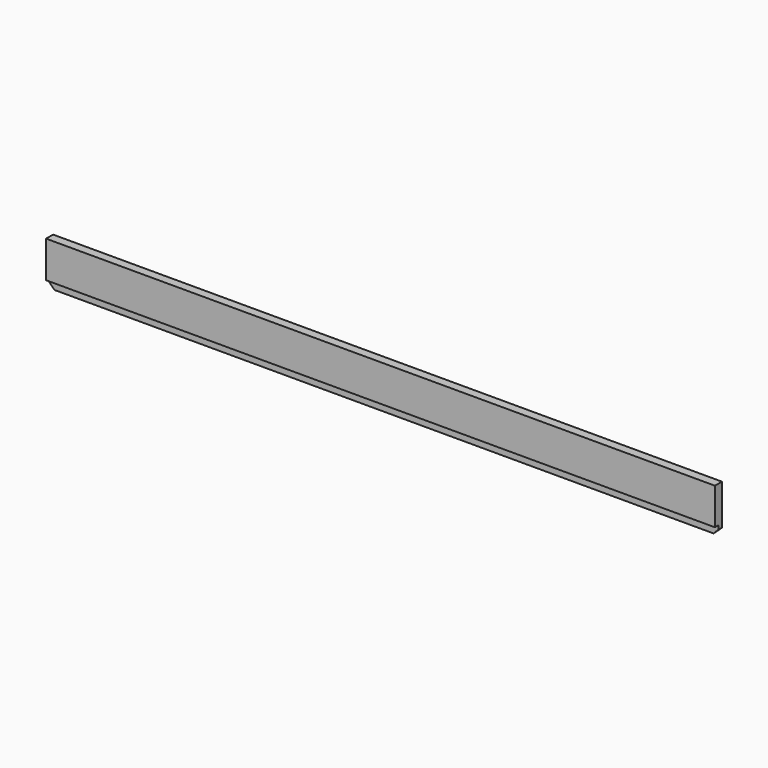
from build123d import *

# Parameters (mm, degrees)
F0_W     = 1370
F0_H     = 93
F1_DEPTH = 9
F2_W     = 1370
F2_H     = 75
F3_DEPTH = 9
F4_SIZE  = 10
F5_SIZE  = 5


with BuildPart() as f1:
    # F0 (on Front) → F1 (new body)
    with BuildSketch(Plane.XZ):
        Rectangle(F0_W, F0_H)
    extrude(amount=F1_DEPTH)

    # F2 (on face) → F3 (join)
    with BuildSketch(Plane.XZ.offset(9)):
        with Locations((0, 9)):
            Rectangle(F2_W, F2_H)
    extrude(amount=F3_DEPTH)

    # F4
    f4_edges = [f1.edges().sort_by_distance(p)[0] for p in [
        (685, -4.5, -46.5),
        (-685, -4.5, -46.5),
    ]]
    chamfer(f4_edges, length=F4_SIZE)

    # F5
    f5_edges = [f1.edges().sort_by_distance(p)[0] for p in [
        (0, 0, -46.5),
    ]]
    chamfer(f5_edges, length=F5_SIZE)


solid = f1.part
